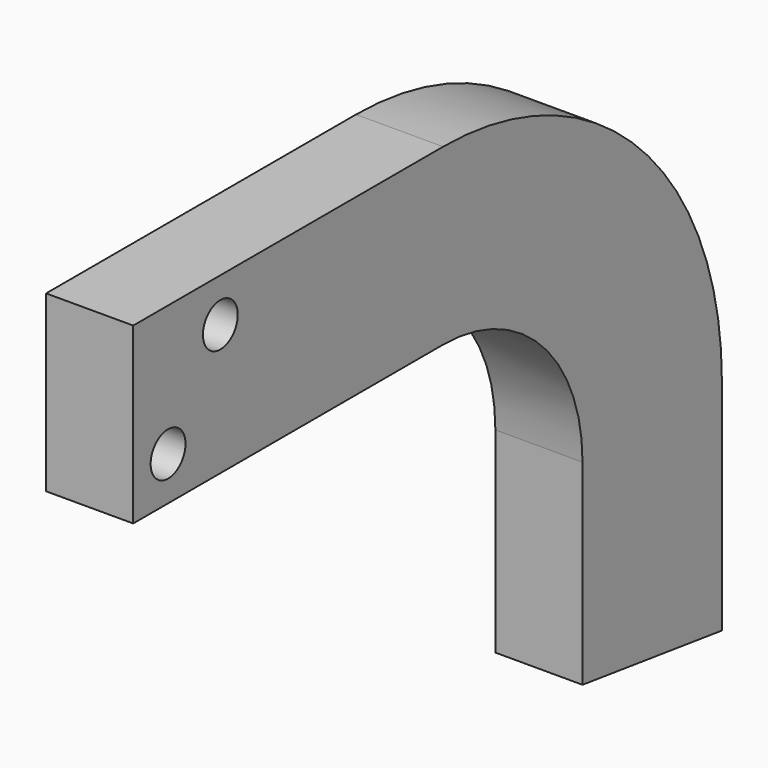
from build123d import *

# Parameters (mm, degrees)
F1_DEPTH = 12.7
F3_D     = 6.35


with BuildPart() as f1:
    # F0 (on Right) → F1 (new body)
    with BuildSketch(Plane.YZ):
        with BuildLine():
            Line((-57.135387, 37.059388), (-57.135387, 11.659388))
            Line((-57.135387, 11.659388), (-0.673995, 11.659388))
            ThreePointArc((-0.673995, 11.659388), (17.286517, 4.219901), (24.726005, -13.740612))
            Line((24.726005, -13.740612), (24.726005, -42.315612))
            Line((24.726005, -42.315612), (50.126005, -45.680172))
            Line((50.126005, -45.680172), (50.126005, -13.740612))
            ThreePointArc((50.126005, -13.740612), (35.247029, 22.180413), (-0.673995, 37.059388))
            Line((-0.673995, 37.059388), (-57.135387, 37.059388))
        make_face()
    extrude(amount=F1_DEPTH)

    # F3 (through all)
    with Locations(Plane.YZ.offset(12.7)):
        with Locations((-50.785387, 18.009388), (-41.260387, 30.709388)):
            Hole(F3_D / 2)


solid = f1.part
